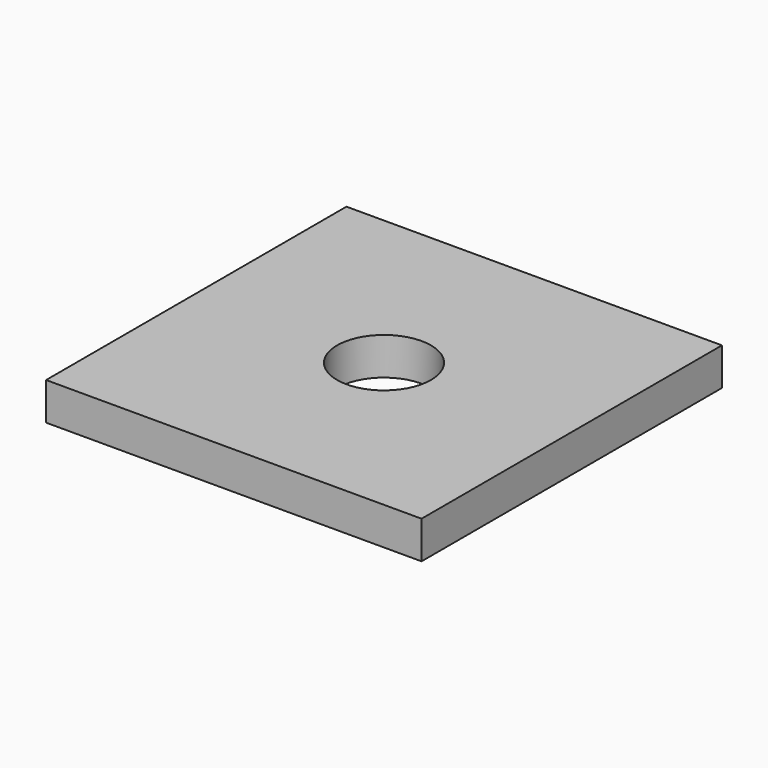
from build123d import *

# Parameters (mm, degrees)
SKETCH_W      = 40
SKETCH_H      = 40
SKETCH_R      = 5
EXTRUDE_DEPTH = 4


with BuildPart() as part:
    # Sketch → Extrude (new body)
    with BuildSketch(Plane.XY):
        Rectangle(SKETCH_W, SKETCH_H)
        Circle(SKETCH_R, mode=Mode.SUBTRACT)
    extrude(amount=EXTRUDE_DEPTH)


solid = part.part
